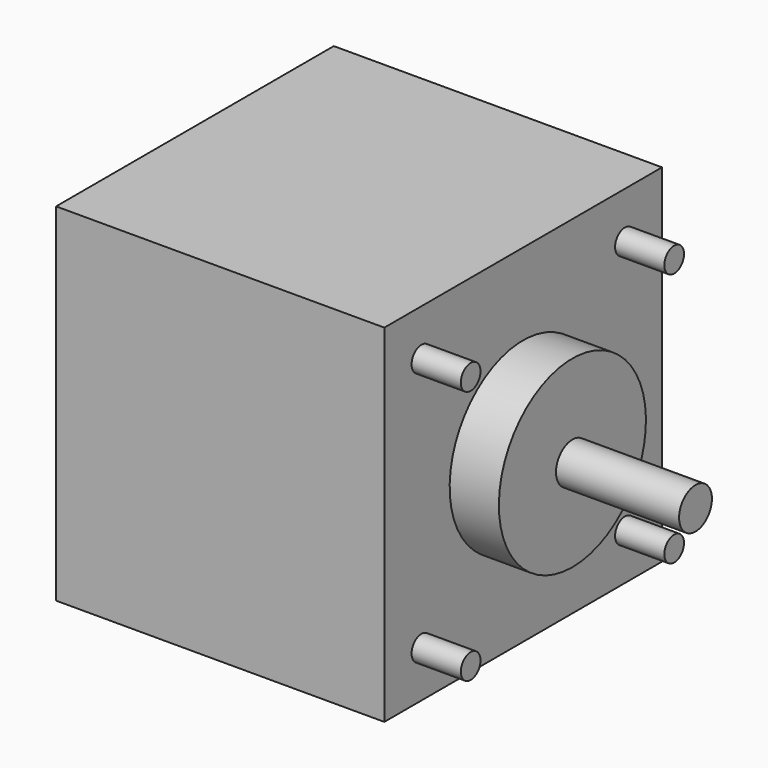
from build123d import *

# Parameters (mm, degrees)
CYLINDER231_R     = 1.5
CYLINDER231_DEPTH = 6
CYLINDER229_R     = 1.5
CYLINDER229_DEPTH = 6
CYLINDER227_R     = 11.2
CYLINDER227_DEPTH = 6
CYLINDER_R        = 2.5
CYLINDER_DEPTH    = 21
CYLINDER230_R     = 1.5
CYLINDER230_DEPTH = 6
CYLINDER228_R     = 1.5
CYLINDER228_DEPTH = 6
BOX_W             = 40
BOX_H             = 42.3
BOX_DEPTH         = 42.3


with BuildPart() as cylinder231:
    # Cylinder231 → Cylinder231 (new body)
    with BuildSketch(Plane(origin=(40, 5.65, 36.665), x_dir=(0, 0, -1), z_dir=(1, 0, 0))):
        Circle(CYLINDER231_R)
    extrude(amount=CYLINDER231_DEPTH)


with BuildPart() as cylinder229:
    # Cylinder229 → Cylinder229 (new body)
    with BuildSketch(Plane(origin=(40, 36.65, 36.65), x_dir=(0, 0, -1), z_dir=(1, 0, 0))):
        Circle(CYLINDER229_R)
    extrude(amount=CYLINDER229_DEPTH)


with BuildPart() as cylinder227:
    # Cylinder227 → Cylinder227 (new body)
    with BuildSketch(Plane(origin=(40, 21.15, 21.15), x_dir=(0, 0, -1), z_dir=(1, 0, 0))):
        Circle(CYLINDER227_R)
    extrude(amount=CYLINDER227_DEPTH)


with BuildPart() as cylinder:
    # Cylinder → Cylinder (new body)
    with BuildSketch(Plane(origin=(40, 21.15, 21.15), x_dir=(0, 0, -1), z_dir=(1, 0, 0))):
        Circle(CYLINDER_R)
    extrude(amount=CYLINDER_DEPTH)


with BuildPart() as cylinder230:
    # Cylinder230 → Cylinder230 (new body)
    with BuildSketch(Plane(origin=(40, 5.65, 5.65), x_dir=(0, 0, -1), z_dir=(1, 0, 0))):
        Circle(CYLINDER230_R)
    extrude(amount=CYLINDER230_DEPTH)


with BuildPart() as cylinder228:
    # Cylinder228 → Cylinder228 (new body)
    with BuildSketch(Plane(origin=(40, 36.65, 5.65), x_dir=(0, 0, -1), z_dir=(1, 0, 0))):
        Circle(CYLINDER228_R)
    extrude(amount=CYLINDER228_DEPTH)


with BuildPart() as fusion:
    # Box → Box (new body)
    with BuildSketch(Plane.XY):
        with Locations((20, 21.15)):
            Rectangle(BOX_W, BOX_H)
    extrude(amount=BOX_DEPTH)

    # Fusion: union Cylinder231, Cylinder229, Cylinder227, Cylinder, Cylinder230, Cylinder228
    add(cylinder231.part)
    add(cylinder229.part)
    add(cylinder227.part)
    add(cylinder.part)
    add(cylinder230.part)
    add(cylinder228.part)


with BuildPart() as fusion_1:
    # Fusion placement: moved
    add(fusion.part.moved(Location((59.2, -37.4, 49.3))))


solid = fusion_1.part
